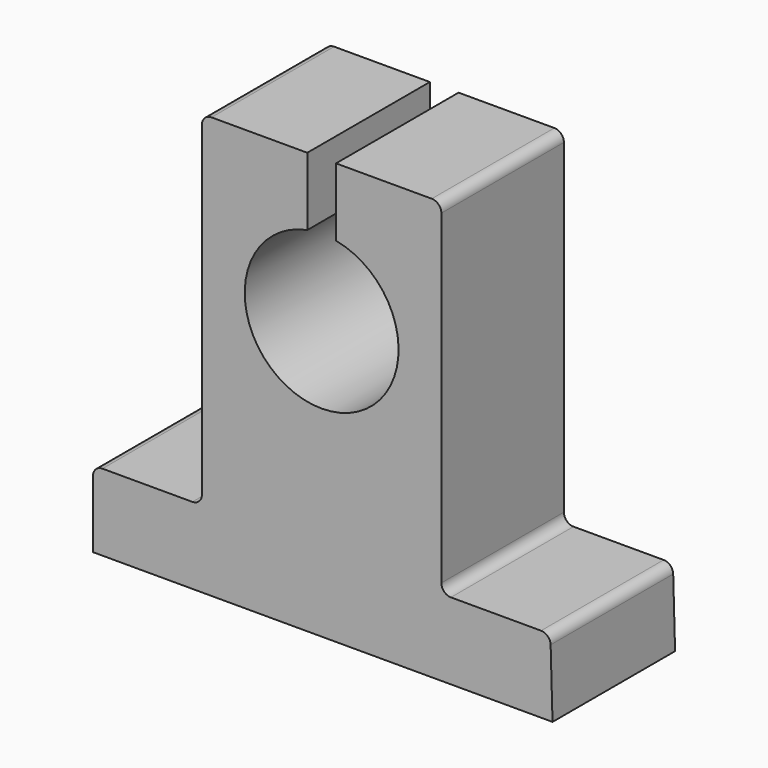
from build123d import *

# Parameters (mm, degrees)
F1_DEPTH = 8


with BuildPart() as f1:
    # F0 (on Front) → F1 (new body, symmetric)
    with BuildSketch(Plane.XZ):
        with BuildLine():
            Line((-23.887601, -10.220423), (24.112399, -10.220423))
            Line((24.112399, -10.220423), (23.914912, -3.192334))
            ThreePointArc((23.914912, -3.192334), (23.612411, -2.503454), (22.915306, -2.220423))
            Line((22.915306, -2.220423), (13.5, -2.220423))
            ThreePointArc((13.5, -2.220423), (12.792893, -1.92753), (12.5, -1.220423))
            Line((12.5, -1.220423), (12.5, 32.779577))
            ThreePointArc((12.5, 32.779577), (12.207107, 33.486684), (11.5, 33.779577))
            Line((11.5, 33.779577), (1.5, 33.779577))
            Line((1.5, 33.779577), (1.5, 26.670727))
            ThreePointArc((1.5, 26.670727), (0, 10.747127), (-1.5, 26.670727))
            Line((-1.5, 26.670727), (-1.5, 33.779577))
            Line((-1.5, 33.779577), (-11.5, 33.779577))
            ThreePointArc((-11.5, 33.779577), (-12.207107, 33.486684), (-12.5, 32.779577))
            Line((-12.5, 32.779577), (-12.5, -1.220423))
            ThreePointArc((-12.5, -1.220423), (-12.792893, -1.92753), (-13.5, -2.220423))
            Line((-13.5, -2.220423), (-22.887601, -2.220423))
            ThreePointArc((-22.887601, -2.220423), (-23.594708, -2.513316), (-23.887601, -3.220423))
            Line((-23.887601, -3.220423), (-23.887601, -10.220423))
        make_face()
    extrude(amount=F1_DEPTH, both=True)


solid = f1.part
